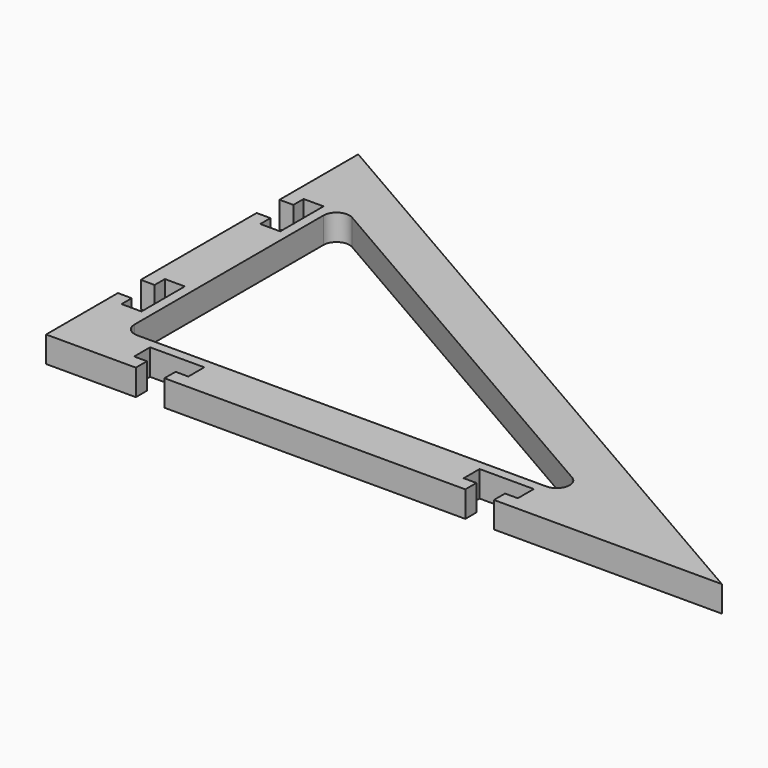
from build123d import *

# Parameters (mm, degrees)
F1_DEPTH = 3
F2_R     = 1.5
F3_W     = 3.302
F3_H     = 1.6
F3_W_2   = 1.6
F3_H_2   = 3.302
F4_DEPTH = 3.001


with BuildPart() as f1:
    # F0 (on Top) → F1 (new body)
    with BuildSketch(Plane.XY):
        Polygon((-30.010116, 45), (-30.010116, 0), (47.93217, 0), align=None)
        Polygon((29.271916, 5), (-25.010116, 5), (-25.010116, 36.339746), align=None, mode=Mode.SUBTRACT)
    extrude(amount=F1_DEPTH)

    # F2
    f2_edges = [f1.edges().sort_by_distance(p)[0] for p in [
        (-25.010116, 36.339746, 1.5),
        (29.271916, 5, 1.5),
        (-25.010116, 5, 1.5),
    ]]
    fillet(f2_edges, radius=F2_R)

    # F3 (on face) → F4 (cut, through all)
    with BuildSketch(Plane.XY.offset(3)):
        Polygon((-28.410116, 35.125), (-28.410116, 33.651), (-28.410116, 30.349), (-28.410116, 28.875), (-26.110116, 28.875), (-26.110116, 35.125), align=None)
        Polygon((-28.410116, 13.651), (-28.410116, 10.349), (-28.410116, 8.875), (-26.110116, 8.875), (-26.110116, 15.125), (-28.410116, 15.125), align=None)
        Polygon((-19.661116, 1.6), (-16.359116, 1.6), (-14.885116, 1.6), (-14.885116, 3.9), (-21.135116, 3.9), (-21.135116, 1.6), align=None)
        Polygon((21.640884, 1.6), (23.114884, 1.6), (23.114884, 3.9), (16.864884, 3.9), (16.864884, 1.6), (18.338884, 1.6), align=None)
        with Locations((19.989884, 0.8)):
            Rectangle(F3_W, F3_H)
        with Locations((-29.210116, 32)):
            Rectangle(F3_W_2, F3_H_2)
        with Locations((-18.010116, 0.8)):
            Rectangle(F3_W, F3_H)
        with Locations((-29.210116, 12)):
            Rectangle(F3_W_2, F3_H_2)
    extrude(amount=-F4_DEPTH, mode=Mode.SUBTRACT)


solid = f1.part
